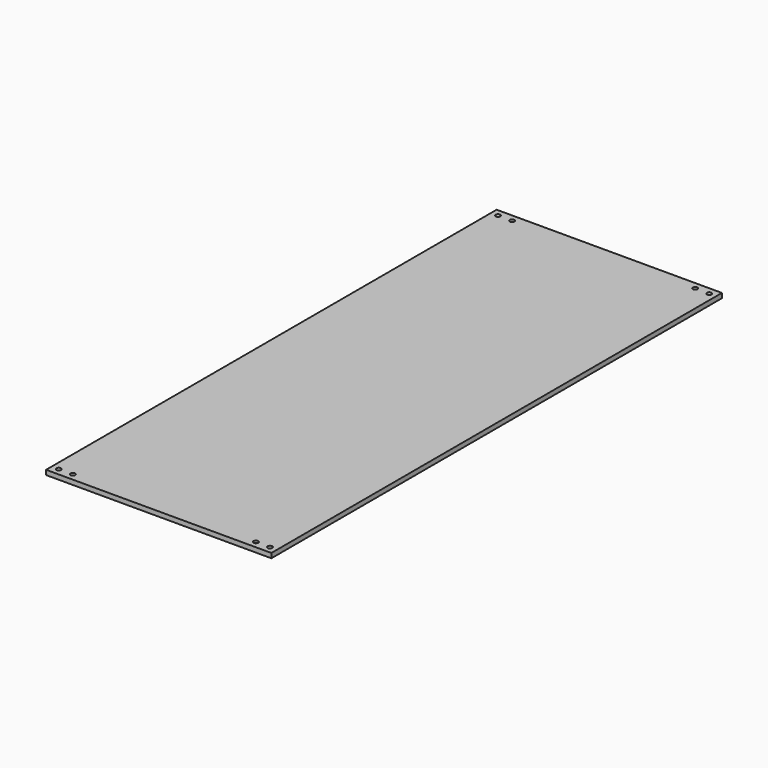
from build123d import *

# Parameters (mm, degrees)
F0_W     = 2438.4
F0_H     = 6096
F1_DEPTH = 50.8
F3_DEPTH = 25.4
F5_DEPTH = 25.4


with BuildPart() as f1:
    # F0 (on Top) → F1 (new body)
    with BuildSketch(Plane.XY):
        Rectangle(F0_W, F0_H)
    extrude(amount=F1_DEPTH)

    # F2 (on face) → F3 (cut)
    with BuildSketch(Plane.XY.offset(50.8)):
        with BuildLine():
            Line((1143, 2971.8), (1168.4, 2971.8))
            ThreePointArc((1168.4, 2971.8), (1160.960512, 2989.760512), (1143, 2997.2))
            Line((1143, 2997.2), (1143, 2971.8))
        make_face()
        with BuildLine():
            ThreePointArc((1143, 2997.2), (1125.039488, 2953.839488), (1168.4, 2971.8))
            Line((1168.4, 2971.8), (1143, 2971.8))
            Line((1143, 2971.8), (1143, 2997.2))
        make_face()
        with BuildLine():
            Line((1143, -2971.8), (1143, -2997.2))
            ThreePointArc((1143, -2997.2), (1160.960512, -2989.760512), (1168.4, -2971.8))
            Line((1168.4, -2971.8), (1143, -2971.8))
        make_face()
        with BuildLine():
            ThreePointArc((1168.4, -2971.8), (1125.039488, -2953.839488), (1143, -2997.2))
            Line((1143, -2997.2), (1143, -2971.8))
            Line((1143, -2971.8), (1168.4, -2971.8))
        make_face()
        with BuildLine():
            ThreePointArc((-1168.4, -2971.8), (-1160.960512, -2989.760512), (-1143, -2997.2))
            Line((-1143, -2997.2), (-1143, -2971.8))
            Line((-1143, -2971.8), (-1168.4, -2971.8))
        make_face()
        with BuildLine():
            Line((-1143, -2971.8), (-1143, -2997.2))
            ThreePointArc((-1143, -2997.2), (-1125.039488, -2989.760512), (-1117.6, -2971.8))
            ThreePointArc((-1117.6, -2971.8), (-1143, -2946.4), (-1168.4, -2971.8))
            Line((-1168.4, -2971.8), (-1143, -2971.8))
        make_face()
        with BuildLine():
            ThreePointArc((-1143, 2997.2), (-1160.960512, 2989.760512), (-1168.4, 2971.8))
            Line((-1168.4, 2971.8), (-1143, 2971.8))
            Line((-1143, 2971.8), (-1143, 2997.2))
        make_face()
        with BuildLine():
            Line((-1143, 2971.8), (-1168.4, 2971.8))
            ThreePointArc((-1168.4, 2971.8), (-1143, 2946.4), (-1117.6, 2971.8))
            ThreePointArc((-1117.6, 2971.8), (-1125.039488, 2989.760512), (-1143, 2997.2))
            Line((-1143, 2997.2), (-1143, 2971.8))
        make_face()
    extrude(amount=-F3_DEPTH, mode=Mode.SUBTRACT)

    # F4 (on face) → F5 (cut)
    with BuildSketch(Plane.XY.offset(50.8)):
        with BuildLine():
            ThreePointArc((1016, -2971.8), (972.639488, -2953.839488), (990.6, -2997.2))
            Line((990.6, -2997.2), (990.6, -2971.8))
            Line((990.6, -2971.8), (1016, -2971.8))
        make_face()
        with BuildLine():
            Line((990.6, -2971.8), (990.6, -2997.2))
            ThreePointArc((990.6, -2997.2), (1008.560512, -2989.760512), (1016, -2971.8))
            Line((1016, -2971.8), (990.6, -2971.8))
        make_face()
        with BuildLine():
            Line((-990.6, -2971.8), (-1016, -2971.8))
            ThreePointArc((-1016, -2971.8), (-1008.560512, -2989.760512), (-990.6, -2997.2))
            Line((-990.6, -2997.2), (-990.6, -2971.8))
        make_face()
        with BuildLine():
            ThreePointArc((-965.2, -2971.8), (-990.6, -2946.4), (-1016, -2971.8))
            Line((-1016, -2971.8), (-990.6, -2971.8))
            Line((-990.6, -2971.8), (-990.6, -2997.2))
            ThreePointArc((-990.6, -2997.2), (-972.639488, -2989.760512), (-965.2, -2971.8))
        make_face()
        with BuildLine():
            ThreePointArc((1016, 2971.8), (1008.560512, 2989.760512), (990.6, 2997.2))
            Line((990.6, 2997.2), (990.6, 2971.8))
            Line((990.6, 2971.8), (1016, 2971.8))
        make_face()
        with BuildLine():
            Line((990.6, 2971.8), (990.6, 2997.2))
            ThreePointArc((990.6, 2997.2), (972.639488, 2953.839488), (1016, 2971.8))
            Line((1016, 2971.8), (990.6, 2971.8))
        make_face()
        with BuildLine():
            Line((-990.6, 2971.8), (-990.6, 2997.2))
            ThreePointArc((-990.6, 2997.2), (-1008.560512, 2989.760512), (-1016, 2971.8))
            Line((-1016, 2971.8), (-990.6, 2971.8))
        make_face()
        with BuildLine():
            ThreePointArc((-965.2, 2971.8), (-972.639488, 2989.760512), (-990.6, 2997.2))
            Line((-990.6, 2997.2), (-990.6, 2971.8))
            Line((-990.6, 2971.8), (-1016, 2971.8))
            ThreePointArc((-1016, 2971.8), (-990.6, 2946.4), (-965.2, 2971.8))
        make_face()
    extrude(amount=-F5_DEPTH, mode=Mode.SUBTRACT)


solid = f1.part
